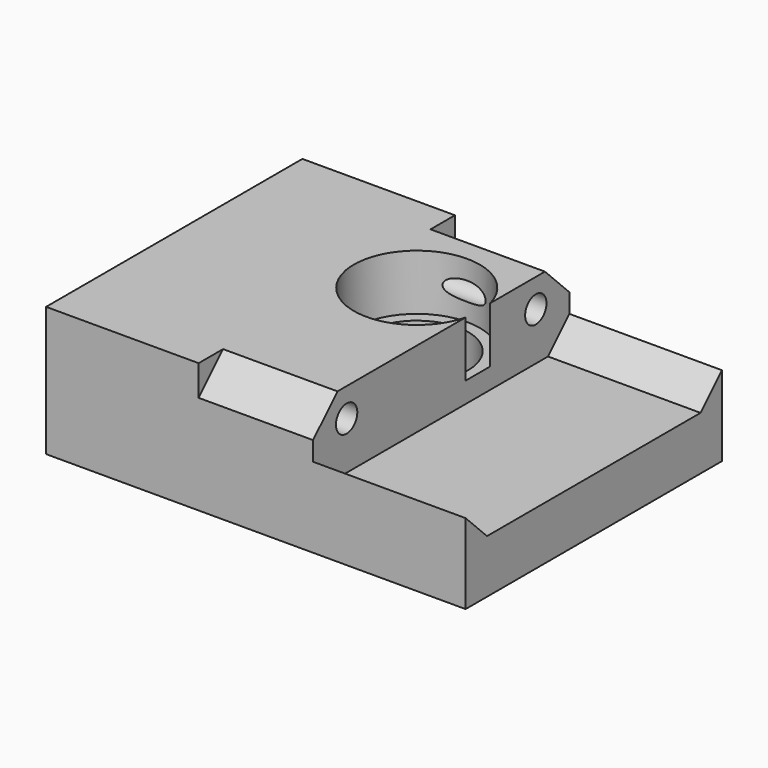
from build123d import *

# Parameters (mm, degrees)
BOX_W           = 55
BOX_H           = 42
BOX_DEPTH       = 17
SKETCH_R        = 1.75
POCKET_DEPTH    = 55.001
POCKET001_DEPTH = 35
POCKET002_DEPTH = 20
SKETCH003_R     = 6.75
POCKET003_DEPTH = 17.001
SKETCH004_R     = 8.25
POCKET004_DEPTH = 7.3
SKETCH005_R     = 8.25
POCKET005_DEPTH = 4.2


with BuildPart() as part:
    # Box → Box (new body)
    with BuildSketch(Plane.XY):
        with Locations((27.5, 21)):
            Rectangle(BOX_W, BOX_H)
    extrude(amount=BOX_DEPTH)

    # Sketch (on Face2 of BaseFeature) → Pocket (cut, through all)
    with BuildSketch(Plane.YZ.offset(55)):
        with Locations((5.5, 13.25)):
            Circle(SKETCH_R)
        with Locations((36.5, 13.25)):
            Circle(SKETCH_R)
    extrude(amount=-POCKET_DEPTH, mode=Mode.SUBTRACT)

    # Sketch001 (on Face2 of BaseFeature) → Pocket001 (cut)
    with BuildSketch(Plane.YZ.offset(55)):
        Polygon((4, 17), (0, 17), (0, 13), align=None)
        Polygon((38, 17), (42, 17), (42, 13), align=None)
    extrude(amount=-POCKET001_DEPTH, mode=Mode.SUBTRACT)

    # Sketch002 (on Face8 of Pocket001) → Pocket002 (cut)
    with BuildSketch(Plane.YZ.offset(55)):
        Polygon((4, 17), (0, 13), (0, 10.5), (3.5, 7), (38.5, 7), (42, 10.5), (42, 13), (38, 17), align=None)
    extrude(amount=-POCKET002_DEPTH, mode=Mode.SUBTRACT)

    # Sketch003 (on Face3 of Pocket002) → Pocket003 (cut, through all)
    with BuildSketch(Plane.XY.offset(17)):
        with Locations((27, 27)):
            Circle(SKETCH003_R)
    extrude(amount=-POCKET003_DEPTH, mode=Mode.SUBTRACT)

    # Sketch004 (on Face3 of Pocket003) → Pocket004 (cut)
    with BuildSketch(Plane.XY.offset(17)):
        with Locations((27, 27)):
            Circle(SKETCH004_R)
    extrude(amount=-POCKET004_DEPTH, mode=Mode.SUBTRACT)

    # Sketch005 (on Face4 of Pocket004) → Pocket005 (cut)
    with BuildSketch(Plane(origin=(0, 0, 0), x_dir=(1, 0, 0), z_dir=(0, 0, -1))):
        with Locations((27, -27)):
            Circle(SKETCH005_R)
    extrude(amount=-POCKET005_DEPTH, mode=Mode.SUBTRACT)


solid = part.part
